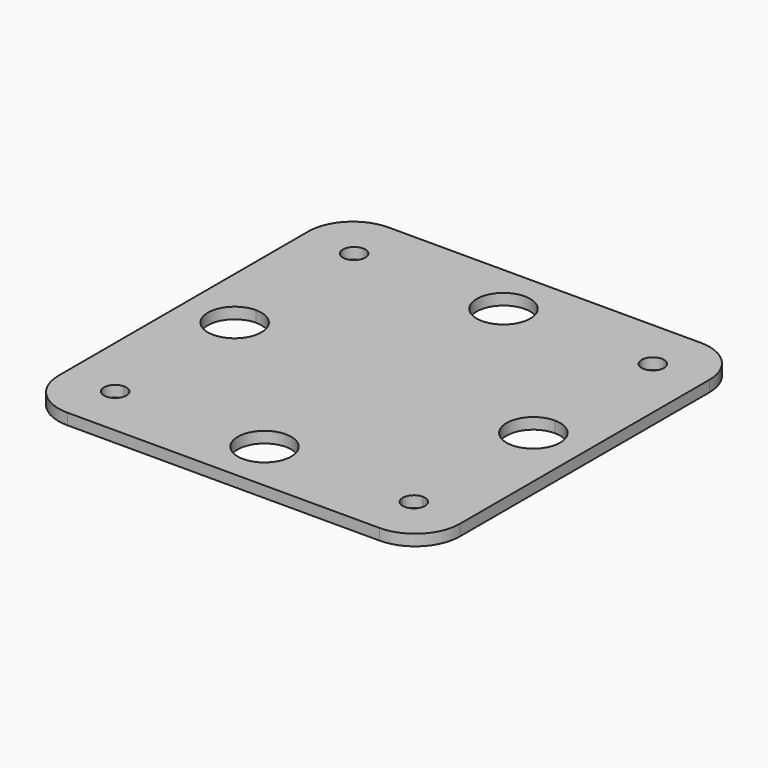
from build123d import *

# Parameters (mm, degrees)
F0_W     = 45.72
F0_H     = 45.72
F1_DEPTH = 1.27
F2_R     = 5.08


with BuildPart() as f1:
    # F0 (on Top) → F1 (new body)
    with BuildSketch(Plane.XY):
        with Locations((16.8960465799, 3.0455592858)):
            Rectangle(F0_W, F0_H)
        with BuildLine():
            ThreePointArc((-0.1219534201, 18.7935592858), (-1.0199790322, 20.9615848979), (1.1480465799, 20.0635592858))
            Line((1.1480465799, 20.0635592858), (13.8480465799, 20.0635592858))
            ThreePointArc((13.8480465799, 20.0635592858), (16.8960465799, 23.1115592858), (19.9440465799, 20.0635592858))
            Line((19.9440465799, 20.0635592858), (32.6440465799, 20.0635592858))
            ThreePointArc((32.6440465799, 20.0635592858), (33.9140465799, 21.3335592858), (35.1840465799, 20.0635592858))
            ThreePointArc((35.1840465799, 20.0635592858), (34.812072192, 19.1655336737), (33.9140465799, 18.7935592858))
            Line((33.9140465799, 18.7935592858), (33.9140465799, 6.0935592858))
            ThreePointArc((33.9140465799, 6.0935592858), (36.0693080489, 5.2008207549), (36.9620465799, 3.0455592858))
            ThreePointArc((36.9620465799, 3.0455592858), (36.0693080489, 0.8902978167), (33.9140465799, -0.0024407142))
            Line((33.9140465799, -0.0024407142), (33.9140465799, -12.7024407142))
            ThreePointArc((33.9140465799, -12.7024407142), (34.812072192, -13.0744151021), (35.1840465799, -13.9724407142))
            ThreePointArc((35.1840465799, -13.9724407142), (33.9140465799, -15.2424407142), (32.6440465799, -13.9724407142))
            Line((32.6440465799, -13.9724407142), (19.9440465799, -13.9724407142))
            ThreePointArc((19.9440465799, -13.9724407142), (16.8960465799, -17.0204407142), (13.8480465799, -13.9724407142))
            Line((13.8480465799, -13.9724407142), (1.1480465799, -13.9724407142))
            ThreePointArc((1.1480465799, -13.9724407142), (-1.0199790322, -14.8704663263), (-0.1219534201, -12.7024407142))
            Line((-0.1219534201, -12.7024407142), (-0.1219534201, -0.0024407142))
            ThreePointArc((-0.1219534201, -0.0024407142), (-3.1699534201, 3.0455592858), (-0.1219534201, 6.0935592858))
            Line((-0.1219534201, 6.0935592858), (-0.1219534201, 18.7935592858))
        make_face(mode=Mode.SUBTRACT)
        with BuildLine():
            Line((13.8480465799, 20.0635592858), (1.1480465799, 20.0635592858))
            ThreePointArc((1.1480465799, 20.0635592858), (0.776072192, 19.1655336737), (-0.1219534201, 18.7935592858))
            Line((-0.1219534201, 18.7935592858), (-0.1219534201, 6.0935592858))
            ThreePointArc((-0.1219534201, 6.0935592858), (2.0333080489, 5.2008207549), (2.9260465799, 3.0455592858))
            ThreePointArc((2.9260465799, 3.0455592858), (2.0333080489, 0.8902978167), (-0.1219534201, -0.0024407142))
            Line((-0.1219534201, -0.0024407142), (-0.1219534201, -12.7024407142))
            ThreePointArc((-0.1219534201, -12.7024407142), (0.776072192, -13.0744151021), (1.1480465799, -13.9724407142))
            Line((1.1480465799, -13.9724407142), (13.8480465799, -13.9724407142))
            ThreePointArc((13.8480465799, -13.9724407142), (16.8960465799, -10.9244407142), (19.9440465799, -13.9724407142))
            Line((19.9440465799, -13.9724407142), (32.6440465799, -13.9724407142))
            ThreePointArc((32.6440465799, -13.9724407142), (33.0160209678, -13.0744151021), (33.9140465799, -12.7024407142))
            Line((33.9140465799, -12.7024407142), (33.9140465799, -0.0024407142))
            ThreePointArc((33.9140465799, -0.0024407142), (30.8660465799, 3.0455592858), (33.9140465799, 6.0935592858))
            Line((33.9140465799, 6.0935592858), (33.9140465799, 18.7935592858))
            ThreePointArc((33.9140465799, 18.7935592858), (33.0160209678, 19.1655336737), (32.6440465799, 20.0635592858))
            Line((32.6440465799, 20.0635592858), (19.9440465799, 20.0635592858))
            ThreePointArc((19.9440465799, 20.0635592858), (16.8960465799, 17.0155592858), (13.8480465799, 20.0635592858))
        make_face()
    extrude(amount=F1_DEPTH)

    # F2
    f2_edges = [f1.edges().sort_by_distance(p)[0] for p in [
        (-5.963953, -19.814441, 0.635),
        (39.756047, -19.814441, 0.635),
        (39.756047, 25.905559, 0.635),
        (-5.963953, 25.905559, 0.635),
    ]]
    fillet(f2_edges, radius=F2_R)


solid = f1.part
